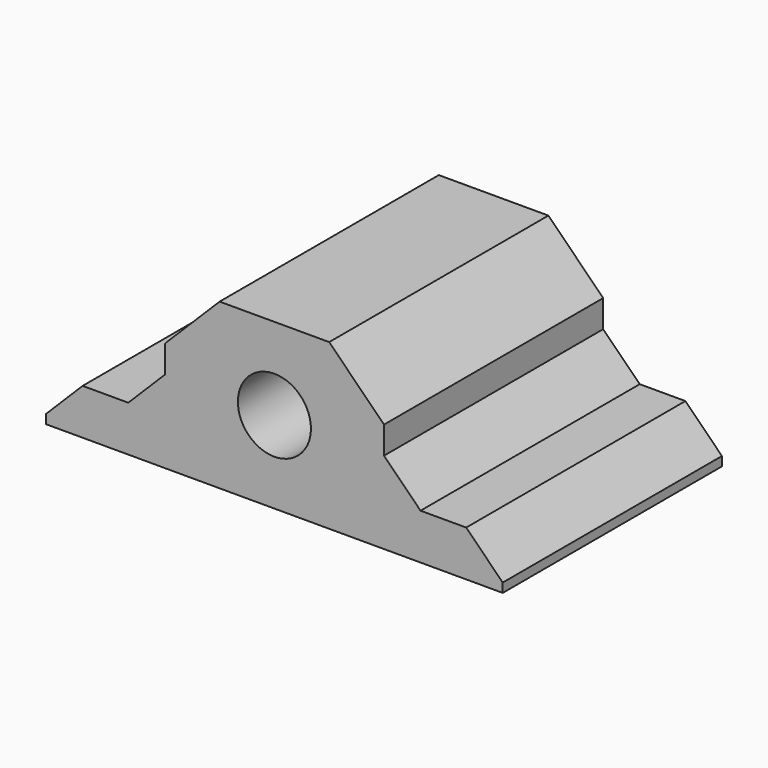
from build123d import *

# Parameters (mm, degrees)
SKETCH011_W                                = 24
SKETCH011_H                                = 18
SKETCH011_R                                = 4
PAD001007004004002003004004002012002_DEPTH = 30
CHAMFER_SIZE                               = 6
SKETCH012_W                                = 50
SKETCH012_H                                = 30
PAD001007004004002003004004002012003_DEPTH = 5
CHAMFER001_SIZE                            = 4


with BuildPart() as part:
    # Sketch011 → Pad001007004004002003004004002012002 (new body)
    with BuildSketch(Plane.XZ):
        Rectangle(SKETCH011_W, SKETCH011_H)
        Circle(SKETCH011_R, mode=Mode.SUBTRACT)
    extrude(amount=PAD001007004004002003004004002012002_DEPTH)

    # Chamfer
    chamfer_edges = [part.edges().sort_by_distance(p)[0] for p in [
        (12, -15, 9),
        (-12, -15, 9),
    ]]
    chamfer(chamfer_edges, length=CHAMFER_SIZE)

    # Sketch012 → Pad001007004004002003004004002012003 (new body)
    with BuildSketch(Plane(origin=(0, 0, -9), x_dir=(1, 0, 0), z_dir=(0, 0, -1))):
        with Locations((0, 15)):
            Rectangle(SKETCH012_W, SKETCH012_H)
    extrude(amount=-PAD001007004004002003004004002012003_DEPTH)

    # Chamfer001
    chamfer001_edges = [part.edges().sort_by_distance(p)[0] for p in [
        (12, -15, -4),
        (-12, -15, -4),
        (-25, -15, -4),
        (25, -15, -4),
    ]]
    chamfer(chamfer001_edges, length=CHAMFER001_SIZE)


solid = part.part
